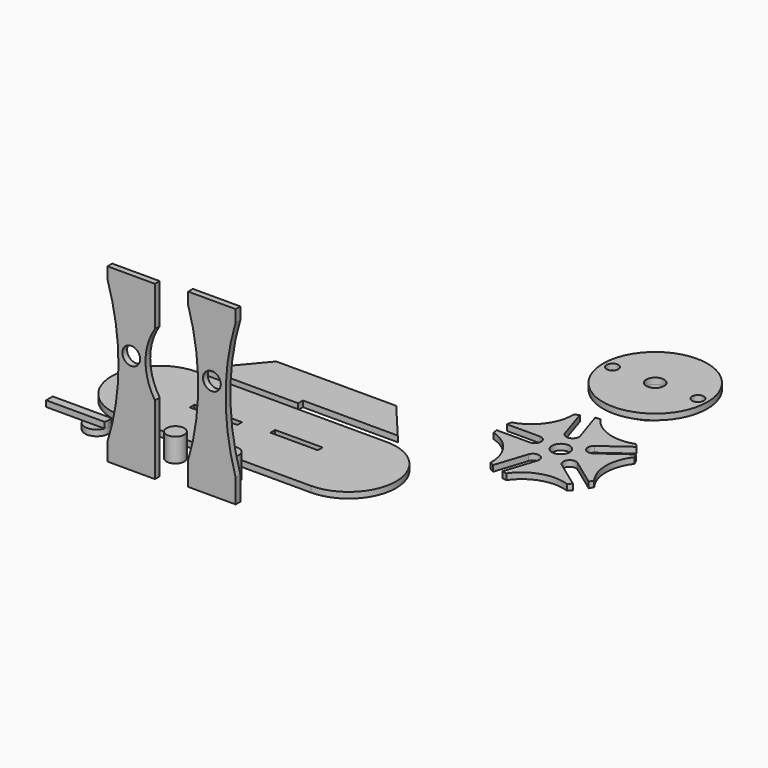
from build123d import *

# Parameters (mm, degrees)
F1_DEPTH  = 3.175
F2_R      = 4.7625
F4_DEPTH  = 3.175
F5_DEPTH  = 3.175
F2_R_2    = 27.94
F2_R_3    = 3.175
F6_DEPTH  = 3.175
F8_DEPTH  = 3.175
F7_W      = 25.4
F7_H      = 3.175
F9_DEPTH  = 3.175
F10_DEPTH = 3.175
F11_DEPTH = 88.9
F13_DEPTH = 3.175
F14_DEPTH = 3.175
F16_DEPTH = 3.175
F17_DEPTH = 3.175
F12_R     = 4.7625
F18_DEPTH = 3.175
F15_R     = 4.7625
F19_DEPTH = 3.175
F20_DEPTH = 3.175
F21_R     = 4.7625
F22_DEPTH = 12.7
F21_R_2   = 6.35
F23_DEPTH = 3.175
F25_DEPTH = 3.175
F26_DEPTH = 12.7
F27_DEPTH = 3.175


with BuildPart() as f1:
    # F0 (on Top) → F1 (new body)
    with BuildSketch(Plane.XY):
        with BuildLine():
            Line((63.5, 25.4), (-38.1, 25.4))
            ThreePointArc((-38.1, 25.4), (-63.5, 0), (-38.1, -25.4))
            Line((-38.1, -25.4), (63.5, -25.4))
            ThreePointArc((63.5, -25.4), (88.9, 0), (63.5, 25.4))
        make_face()
    extrude(amount=F1_DEPTH)

    # F7 (on face) → F9 (cut)
    with BuildSketch(Plane.XY.offset(3.175)):
        with Locations((-7.62, 0)):
            Rectangle(F7_W, F7_H)
    extrude(amount=-F9_DEPTH, mode=Mode.SUBTRACT)

    # F7 (on face) → F10 (cut)
    with BuildSketch(Plane.XY.offset(3.175)):
        with Locations((33.02, 3.175)):
            Rectangle(F7_W, F7_H)
    extrude(amount=-F10_DEPTH, mode=Mode.SUBTRACT)


with BuildPart() as f4:
    # F2 (on Top) → F4 (new body)
    with BuildSketch(Plane.XY):
        with BuildLine():
            ThreePointArc((120.3612832322, 34.4193587213), (131.809729009, 42.968420609), (146.0967287001, 42.7813118451))
            ThreePointArc((146.0967287001, 42.7813118451), (147.0032712022, 43.6680444399), (147.873681045, 44.5902703929))
            Line((147.873681045, 44.5902703929), (133.639600716, 54.9319350989))
            ThreePointArc((133.639600716, 54.9319350989), (132.8809970724, 59.7215700028), (137.6706319762, 60.4801736464))
            Line((137.6706319762, 60.4801736464), (151.9047123053, 50.1385089403))
            ThreePointArc((151.9047123053, 50.1385089403), (152.5128298738, 51.2513013853), (153.076025647, 52.3874899805))
            ThreePointArc((153.076025647, 52.3874899805), (148.4831489347, 65.9174143472), (153.076025647, 79.4473387139))
            ThreePointArc((153.076025647, 79.4473387139), (152.5128298738, 80.583527309), (151.9047123053, 81.6963197541))
            Line((151.9047123053, 81.6963197541), (137.6706319762, 71.354655048))
            ThreePointArc((137.6706319762, 71.354655048), (132.8809970724, 72.1132586916), (133.639600716, 76.9028935954))
            Line((133.639600716, 76.9028935954), (147.873681045, 87.2445583015))
            ThreePointArc((147.873681045, 87.2445583015), (147.0032712022, 88.1667842544), (146.0967287001, 89.0535168493))
            ThreePointArc((146.0967287001, 89.0535168493), (131.809729009, 88.8664080854), (120.3612832322, 97.4154699731))
            ThreePointArc((120.3612832322, 97.4154699731), (119.1066666, 97.2309405477), (117.8604194306, 96.9964581482))
            Line((117.8604194306, 96.9964581482), (123.2973543177, 80.2632931535))
            ThreePointArc((123.2973543177, 80.2632931535), (121.095800797, 75.9425010854), (116.7750087289, 78.1440546061))
            Line((116.7750087289, 78.1440546061), (111.3380738418, 94.8772196008))
            ThreePointArc((111.3380738418, 94.8772196008), (110.1920134063, 94.33439414), (109.0685435545, 93.7462364274))
            ThreePointArc((109.0685435545, 93.7462364274), (104.8315688605, 80.100672485), (93.1631635397, 71.8543589368))
            ThreePointArc((93.1631635397, 71.8543589368), (92.9509635914, 70.6041248848), (92.7888580509, 69.3464143472))
            Line((92.7888580509, 69.3464143472), (110.3831489347, 69.3464143472))
            ThreePointArc((110.3831489347, 69.3464143472), (113.8121489347, 65.9174143472), (110.3831489347, 62.4884143472))
            Line((110.3831489347, 62.4884143472), (92.7888580509, 62.4884143472))
            ThreePointArc((92.7888580509, 62.4884143472), (92.9509635914, 61.2307038095), (93.1631635397, 59.9804697575))
            ThreePointArc((93.1631635397, 59.9804697575), (104.8315688605, 51.7341562094), (109.0685435545, 38.088592267))
            ThreePointArc((109.0685435545, 38.088592267), (110.1920134063, 37.5004345544), (111.3380738418, 36.9576090936))
            Line((111.3380738418, 36.9576090936), (116.7750087289, 53.6907740882))
            ThreePointArc((116.7750087289, 53.6907740882), (121.095800797, 55.8923276089), (123.2973543177, 51.5715355408))
            Line((123.2973543177, 51.5715355408), (117.8604194306, 34.8383705461))
            ThreePointArc((117.8604194306, 34.8383705461), (119.1066666, 34.6038881466), (120.3612832322, 34.4193587213))
        make_face()
        with Locations((124.3531489347, 65.9174143472)):
            Circle(F2_R, mode=Mode.SUBTRACT)
    extrude(amount=F4_DEPTH)

    # F2 (on Top) → F8 (join)
    with BuildSketch(Plane.XY):
        with BuildLine():
            ThreePointArc((120.3612832322, 34.4193587213), (131.809729009, 42.968420609), (146.0967287001, 42.7813118451))
            ThreePointArc((146.0967287001, 42.7813118451), (147.0032712022, 43.6680444399), (147.873681045, 44.5902703929))
            Line((147.873681045, 44.5902703929), (133.639600716, 54.9319350989))
            ThreePointArc((133.639600716, 54.9319350989), (132.8809970724, 59.7215700028), (137.6706319762, 60.4801736464))
            Line((137.6706319762, 60.4801736464), (151.9047123053, 50.1385089403))
            ThreePointArc((151.9047123053, 50.1385089403), (152.5128298738, 51.2513013853), (153.076025647, 52.3874899805))
            ThreePointArc((153.076025647, 52.3874899805), (148.4831489347, 65.9174143472), (153.076025647, 79.4473387139))
            ThreePointArc((153.076025647, 79.4473387139), (152.5128298738, 80.583527309), (151.9047123053, 81.6963197541))
            Line((151.9047123053, 81.6963197541), (137.6706319762, 71.354655048))
            ThreePointArc((137.6706319762, 71.354655048), (132.8809970724, 72.1132586916), (133.639600716, 76.9028935954))
            Line((133.639600716, 76.9028935954), (147.873681045, 87.2445583015))
            ThreePointArc((147.873681045, 87.2445583015), (147.0032712022, 88.1667842544), (146.0967287001, 89.0535168493))
            ThreePointArc((146.0967287001, 89.0535168493), (131.809729009, 88.8664080854), (120.3612832322, 97.4154699731))
            ThreePointArc((120.3612832322, 97.4154699731), (119.1066666, 97.2309405477), (117.8604194306, 96.9964581482))
            Line((117.8604194306, 96.9964581482), (123.2973543177, 80.2632931535))
            ThreePointArc((123.2973543177, 80.2632931535), (121.095800797, 75.9425010854), (116.7750087289, 78.1440546061))
            Line((116.7750087289, 78.1440546061), (111.3380738418, 94.8772196008))
            ThreePointArc((111.3380738418, 94.8772196008), (110.1920134063, 94.33439414), (109.0685435545, 93.7462364274))
            ThreePointArc((109.0685435545, 93.7462364274), (104.8315688605, 80.100672485), (93.1631635397, 71.8543589368))
            ThreePointArc((93.1631635397, 71.8543589368), (92.9509635914, 70.6041248848), (92.7888580509, 69.3464143472))
            Line((92.7888580509, 69.3464143472), (110.3831489347, 69.3464143472))
            ThreePointArc((110.3831489347, 69.3464143472), (113.8121489347, 65.9174143472), (110.3831489347, 62.4884143472))
            Line((110.3831489347, 62.4884143472), (92.7888580509, 62.4884143472))
            ThreePointArc((92.7888580509, 62.4884143472), (92.9509635914, 61.2307038095), (93.1631635397, 59.9804697575))
            ThreePointArc((93.1631635397, 59.9804697575), (104.8315688605, 51.7341562094), (109.0685435545, 38.088592267))
            ThreePointArc((109.0685435545, 38.088592267), (110.1920134063, 37.5004345544), (111.3380738418, 36.9576090936))
            Line((111.3380738418, 36.9576090936), (116.7750087289, 53.6907740882))
            ThreePointArc((116.7750087289, 53.6907740882), (121.095800797, 55.8923276089), (123.2973543177, 51.5715355408))
            Line((123.2973543177, 51.5715355408), (117.8604194306, 34.8383705461))
            ThreePointArc((117.8604194306, 34.8383705461), (119.1066666, 34.6038881466), (120.3612832322, 34.4193587213))
        make_face()
        with Locations((124.3531489347, 65.9174143472)):
            Circle(F2_R, mode=Mode.SUBTRACT)
    extrude(amount=F8_DEPTH)


with BuildPart() as f5:
    # F2 (on Top) → F5 (new body)
    with BuildSketch(Plane.XY):
        with BuildLine():
            ThreePointArc((130.021378454, 118.8906994246), (124.068253454, 137.399717233), (130.021378454, 155.9087350415))
            ThreePointArc((130.021378454, 155.9087350415), (117.718253454, 159.624717233), (105.415128454, 155.9087350415))
            ThreePointArc((105.415128454, 155.9087350415), (111.368253454, 137.399717233), (105.415128454, 118.8906994246))
            ThreePointArc((105.415128454, 118.8906994246), (117.718253454, 115.174717233), (130.021378454, 118.8906994246))
        make_face()
        with Locations((117.718253454, 137.399717233)):
            Circle(F2_R, mode=Mode.SUBTRACT)
    extrude(amount=F5_DEPTH)

    # F2 (on Top) → F6 (join)
    with BuildSketch(Plane.XY):
        with Locations((117.718253454, 137.399717233)):
            Circle(F2_R_2)
        with Locations((94.858253454, 137.399717233)):
            Circle(F2_R_3, mode=Mode.SUBTRACT)
        with BuildLine():
            ThreePointArc((105.415128454, 155.9087350415), (117.718253454, 159.624717233), (130.021378454, 155.9087350415))
            ThreePointArc((130.021378454, 155.9087350415), (124.068253454, 137.399717233), (130.021378454, 118.8906994246))
            ThreePointArc((130.021378454, 118.8906994246), (117.718253454, 115.174717233), (105.415128454, 118.8906994246))
            ThreePointArc((105.415128454, 118.8906994246), (111.368253454, 137.399717233), (105.415128454, 155.9087350415))
        make_face(mode=Mode.SUBTRACT)
        with Locations((140.578253454, 137.399717233)):
            Circle(F2_R_3, mode=Mode.SUBTRACT)
    extrude(amount=F6_DEPTH)


with BuildPart() as f11:
    # F7 (on face) → F11 (new body)
    with BuildSketch(Plane.XY.offset(3.175)):
        with Locations((-7.62, -55.0611902535)):
            Rectangle(F7_W, F7_H)
    extrude(amount=F11_DEPTH)

    # F7 (on face) → F13 (join)
    with BuildSketch(Plane.XY.offset(3.175)):
        with Locations((-7.62, -55.0611902535)):
            Rectangle(F7_W, F7_H)
    extrude(amount=-F13_DEPTH)

    # F15 (on face) → F16 (cut)
    with BuildSketch(Plane.XZ.offset(56.6486902535)):
        with BuildLine():
            Line((5.08, 37.126546065), (5.08, 70.823453935))
            ThreePointArc((5.08, 70.823453935), (0, 53.975), (5.08, 37.126546065))
        make_face()
        with BuildLine():
            ThreePointArc((-20.32, 9.525), (-14.47027858, 47.625), (-20.32, 85.725))
            Line((-20.32, 85.725), (-20.32, 9.525))
        make_face()
    extrude(amount=-F16_DEPTH, mode=Mode.SUBTRACT)

    # F15 (on face) → F19 (cut)
    with BuildSketch(Plane.XZ.offset(56.6486902535)):
        with Locations((-7.62, 53.975)):
            Circle(F15_R)
    extrude(amount=-F19_DEPTH, mode=Mode.SUBTRACT)


with BuildPart() as f11b:
    # F7 (on face) → F11, piece 2 (new body)
    with BuildSketch(Plane.XY.offset(3.175)):
        with Locations((33.02, -51.8861902535)):
            Rectangle(F7_W, F7_H)
    extrude(amount=F11_DEPTH)

    # F7 (on face) → F14 (join)
    with BuildSketch(Plane.XY.offset(3.175)):
        with Locations((33.02, -51.8861902535)):
            Rectangle(F7_W, F7_H)
    extrude(amount=-F14_DEPTH)

    # F12 (on face) → F17 (cut)
    with BuildSketch(Plane.XZ.offset(53.4736902535)):
        with BuildLine():
            Line((20.32, 85.725), (20.32, 12.7))
            ThreePointArc((20.32, 12.7), (25.681859009, 49.2125), (20.32, 85.725))
        make_face()
        with BuildLine():
            ThreePointArc((45.72, 85.725), (40.358140991, 49.2125), (45.72, 12.7))
            Line((45.72, 12.7), (45.72, 85.725))
        make_face()
    extrude(amount=-F17_DEPTH, mode=Mode.SUBTRACT)

    # F12 (on face) → F18 (cut)
    with BuildSketch(Plane.XZ.offset(53.4736902535)):
        with Locations((33.02, 53.975)):
            Circle(F12_R)
    extrude(amount=-F18_DEPTH, mode=Mode.SUBTRACT)


with BuildPart() as f20:
    # F2 (on Top) → F20 (new body)
    with BuildSketch(Plane.XY):
        with BuildLine():
            ThreePointArc((130.021378454, 118.8906994246), (124.068253454, 137.399717233), (130.021378454, 155.9087350415))
            ThreePointArc((130.021378454, 155.9087350415), (117.718253454, 159.624717233), (105.415128454, 155.9087350415))
            ThreePointArc((105.415128454, 155.9087350415), (111.368253454, 137.399717233), (105.415128454, 118.8906994246))
            ThreePointArc((105.415128454, 118.8906994246), (117.718253454, 115.174717233), (130.021378454, 118.8906994246))
        make_face()
        with Locations((117.718253454, 137.399717233)):
            Circle(F2_R, mode=Mode.SUBTRACT)
    extrude(amount=-F20_DEPTH)


with BuildPart() as f22:
    # F21 (on Top) → F22 (new body)
    with BuildSketch(Plane.XY):
        with Locations((29.3921194971, -36.6132743657)):
            Circle(F21_R)
    extrude(amount=F22_DEPTH)


with BuildPart() as f23:
    # F21 (on Top) → F23 (new body)
    with BuildSketch(Plane.XY):
        with Locations((-42.0832447708, -36.6132743657)):
            Circle(F21_R_2)
    extrude(amount=F23_DEPTH)


with BuildPart() as f25:
    # F24 (on face) → F25 (new body)
    with BuildSketch(Plane.XY.offset(3.175)):
        with BuildLine():
            Line((-67.4832447708, -34.3907743657), (-67.4832447708, -38.8357743657))
            Line((-67.4832447708, -38.8357743657), (-48.0316053642, -38.8357743657))
            ThreePointArc((-48.0316053642, -38.8357743657), (-48.4332447708, -36.6132743657), (-48.0316053642, -34.3907743657))
            Line((-48.0316053642, -34.3907743657), (-67.4832447708, -34.3907743657))
        make_face()
        with BuildLine():
            ThreePointArc((-48.0316053642, -34.3907743657), (-48.4332447708, -36.6132743657), (-48.0316053642, -38.8357743657))
            Line((-48.0316053642, -38.8357743657), (-36.1348841773, -38.8357743657))
            ThreePointArc((-36.1348841773, -38.8357743657), (-35.8344612984, -37.7425241678), (-35.7332447708, -36.6132743657))
            ThreePointArc((-35.7332447708, -36.6132743657), (-35.8344612984, -35.4840245635), (-36.1348841773, -34.3907743657))
            Line((-36.1348841773, -34.3907743657), (-48.0316053642, -34.3907743657))
        make_face()
    extrude(amount=F25_DEPTH)


with BuildPart() as f26:
    # F21 (on Top) → F26 (new body)
    with BuildSketch(Plane.XY):
        with Locations((0, -36.6132743657)):
            Circle(F21_R)
    extrude(amount=F26_DEPTH)


with BuildPart() as f27:
    # F7 (on face) → F27 (new body)
    with BuildSketch(Plane.XY.offset(3.175)):
        Polygon((46.1830813616, 53.4696821765), (-18.1189400326, 53.4696821765), (-38.1, 29.6571821765), (12.7, 29.6571821765), (12.7, 32.8321821765), (63.5, 32.8321821765), align=None)
    extrude(amount=-F27_DEPTH)


solid = Compound([f1.part, f4.part, f5.part, f11.part, f11b.part, f20.part, f22.part, f23.part, f25.part, f26.part, f27.part])
